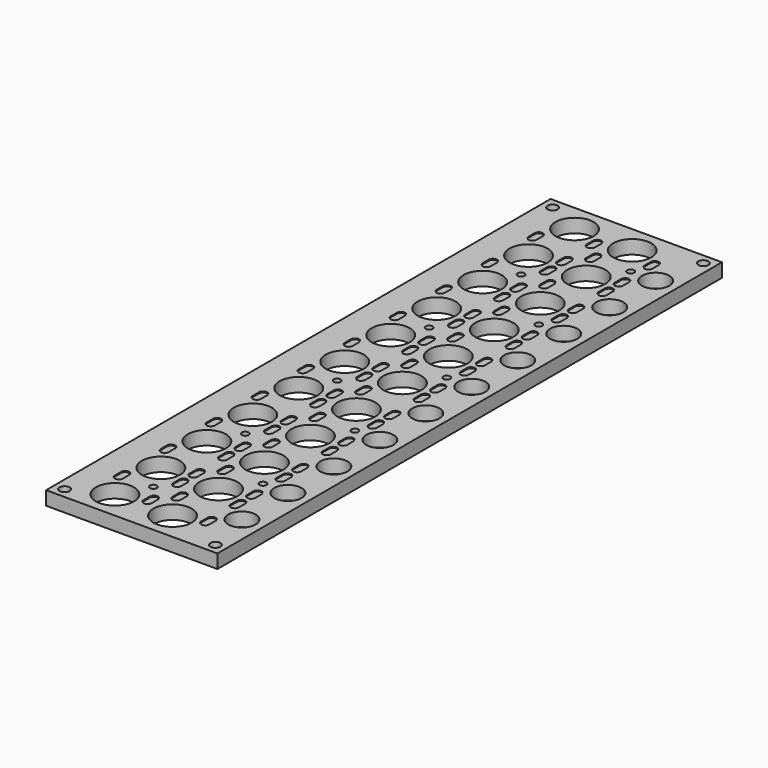
from build123d import *

# Parameters (mm, degrees)
F0_W     = 49.8404
F0_H     = 183.4444
F1_DEPTH = 4
F3_DEPTH = 0.3
F4_R     = 5.55625
F4_R_2   = 3.96875
F4_R_3   = 1.4732
F4_R_4   = 1.016
F5_DEPTH = 25


with BuildPart() as f1:
    # F0 (on Top) → F1 (new body)
    with BuildSketch(Plane.XY):
        with Locations((21.9202, 88.7222)):
            Rectangle(F0_W, F0_H)
    extrude(amount=-F1_DEPTH)

    # F2 (on face) → F3 (cut)
    with BuildSketch(Plane.XY):
        with BuildLine():
            Line((4.684775, 64.8022), (4.684775, 62.5022))
            ThreePointArc((4.684775, 62.5022), (5.8754, 61.311575), (7.066025, 62.5022))
            Line((7.066025, 62.5022), (7.066025, 64.8022))
            ThreePointArc((7.066025, 64.8022), (5.8754, 65.992825), (4.684775, 64.8022))
        make_face()
        with BuildLine():
            Line((19.732625, 168.1588), (19.732625, 170.4588))
            ThreePointArc((19.732625, 170.4588), (18.542, 171.649425), (17.351375, 170.4588))
            Line((17.351375, 170.4588), (17.351375, 168.1588))
            ThreePointArc((17.351375, 168.1588), (18.542, 166.968175), (19.732625, 168.1588))
        make_face()
        with BuildLine():
            Line((34.115375, 103.6056), (34.115375, 101.3056))
            ThreePointArc((34.115375, 101.3056), (35.306, 100.114975), (36.496625, 101.3056))
            Line((36.496625, 101.3056), (36.496625, 103.6056))
            ThreePointArc((36.496625, 103.6056), (35.306, 104.796225), (34.115375, 103.6056))
        make_face()
        with BuildLine():
            ThreePointArc((34.115375, 168.1588), (35.306, 166.968175), (36.496625, 168.1588))
            Line((36.496625, 168.1588), (36.496625, 170.4588))
            ThreePointArc((36.496625, 170.4588), (35.306, 171.649425), (34.115375, 170.4588))
            Line((34.115375, 170.4588), (34.115375, 168.1588))
        make_face()
        with BuildLine():
            Line((7.066025, 29.0756), (7.066025, 31.3756))
            ThreePointArc((7.066025, 31.3756), (5.8754, 32.566225), (4.684775, 31.3756))
            Line((4.684775, 31.3756), (4.684775, 29.0756))
            ThreePointArc((4.684775, 29.0756), (5.8754, 27.884975), (7.066025, 29.0756))
        make_face()
        with BuildLine():
            Line((34.115375, 36.7524), (34.115375, 34.4524))
            ThreePointArc((34.115375, 34.4524), (35.306, 33.261775), (36.496625, 34.4524))
            Line((36.496625, 34.4524), (36.496625, 36.7524))
            ThreePointArc((36.496625, 36.7524), (35.306, 37.943025), (34.115375, 36.7524))
        make_face()
        with BuildLine():
            Line((4.684775, 131.6554), (4.684775, 129.3554))
            ThreePointArc((4.684775, 129.3554), (5.8754, 128.164775), (7.066025, 129.3554))
            Line((7.066025, 129.3554), (7.066025, 131.6554))
            ThreePointArc((7.066025, 131.6554), (5.8754, 132.846025), (4.684775, 131.6554))
        make_face()
        with BuildLine():
            Line((36.496625, 123.9786), (36.496625, 126.2786))
            ThreePointArc((36.496625, 126.2786), (35.306, 127.469225), (34.115375, 126.2786))
            Line((34.115375, 126.2786), (34.115375, 123.9786))
            ThreePointArc((34.115375, 123.9786), (35.306, 122.787975), (36.496625, 123.9786))
        make_face()
        with BuildLine():
            Line((7.066025, 79.2155), (7.066025, 81.5155))
            ThreePointArc((7.066025, 81.5155), (5.8754, 82.706125), (4.684775, 81.5155))
            Line((4.684775, 81.5155), (4.684775, 79.2155))
            ThreePointArc((4.684775, 79.2155), (5.8754, 78.024875), (7.066025, 79.2155))
        make_face()
        with BuildLine():
            Line((34.115375, 120.3189), (34.115375, 118.0189))
            ThreePointArc((34.115375, 118.0189), (35.306, 116.828275), (36.496625, 118.018901))
            Line((36.496625, 118.018901), (36.496625, 120.318901))
            ThreePointArc((36.496625, 120.318901), (35.306, 121.509525), (34.115375, 120.3189))
        make_face()
        with BuildLine():
            Line((36.496625, 57.1254), (36.496625, 59.4254))
            ThreePointArc((36.496625, 59.4254), (35.306, 60.616025), (34.115375, 59.4254))
            Line((34.115375, 59.4254), (34.115375, 57.1254))
            ThreePointArc((34.115375, 57.1254), (35.306, 55.934775), (36.496625, 57.1254))
        make_face()
        with BuildLine():
            Line((19.732625, 123.9786), (19.732625, 126.2786))
            ThreePointArc((19.732625, 126.2786), (18.542, 127.469225), (17.351375, 126.2786))
            Line((17.351375, 126.2786), (17.351375, 123.9786))
            ThreePointArc((17.351375, 123.9786), (18.542, 122.787975), (19.732625, 123.9786))
        make_face()
        with BuildLine():
            Line((36.496625, 73.8387), (36.496625, 76.1387))
            ThreePointArc((36.496625, 76.1387), (35.306, 77.329325), (34.115375, 76.1387))
            Line((34.115375, 76.1387), (34.115375, 73.8387))
            ThreePointArc((34.115375, 73.8387), (35.306, 72.648075), (36.496625, 73.8387))
        make_face()
        with BuildLine():
            Line((36.496625, 157.4052), (36.496625, 159.7052))
            ThreePointArc((36.496625, 159.7052), (35.306, 160.895825), (34.115375, 159.7052))
            Line((34.115375, 159.7052), (34.115375, 157.4052))
            ThreePointArc((34.115375, 157.4052), (35.306, 156.214575), (36.496625, 157.4052))
        make_face()
        with BuildLine():
            Line((7.066025, 45.7889), (7.066025, 48.0889))
            ThreePointArc((7.066025, 48.0889), (5.8754, 49.279525), (4.684775, 48.0889))
            Line((4.684775, 48.0889), (4.684775, 45.7889))
            ThreePointArc((4.684775, 45.7889), (5.8754, 44.598275), (7.066025, 45.7889))
        make_face()
        with BuildLine():
            Line((7.066025, 112.6421), (7.066025, 114.9421))
            ThreePointArc((7.066025, 114.9421), (5.8754, 116.132725), (4.684775, 114.9421))
            Line((4.684775, 114.9421), (4.684775, 112.6421))
            ThreePointArc((4.684775, 112.6421), (5.8754, 111.451475), (7.066025, 112.6421))
        make_face()
        with BuildLine():
            Line((34.115375, 53.4657), (34.115375, 51.1657))
            ThreePointArc((34.115375, 51.1657), (35.306, 49.975075), (36.496625, 51.1657))
            Line((36.496625, 51.1657), (36.496625, 53.4657))
            ThreePointArc((36.496625, 53.4657), (35.306, 54.656325), (34.115375, 53.4657))
        make_face()
        with BuildLine():
            Line((34.115375, 153.7455), (34.115375, 151.4455))
            ThreePointArc((34.115375, 151.4455), (35.306, 150.254875), (36.496625, 151.4455))
            Line((36.496625, 151.4455), (36.496625, 153.7455))
            ThreePointArc((36.496625, 153.7455), (35.306, 154.936125), (34.115375, 153.7455))
        make_face()
        with BuildLine():
            ThreePointArc((34.115375, 40.4121), (35.306, 39.221475), (36.496625, 40.4121))
            Line((36.496625, 40.4121), (36.496625, 42.7121))
            ThreePointArc((36.496625, 42.7121), (35.306, 43.902725), (34.115375, 42.7121))
            Line((34.115375, 42.7121), (34.115375, 40.4121))
        make_face()
        with BuildLine():
            ThreePointArc((4.684775, 95.9288), (5.8754, 94.738175), (7.066025, 95.9288))
            Line((7.066025, 95.9288), (7.066025, 98.2288))
            ThreePointArc((7.066025, 98.2288), (5.8754, 99.419425), (4.684775, 98.2288))
            Line((4.684775, 98.2288), (4.684775, 95.9288))
        make_face()
        with BuildLine():
            Line((36.496625, 6.9855), (36.496625, 9.2855))
            ThreePointArc((36.496625, 9.2855), (35.306, 10.476125), (34.115375, 9.2855))
            Line((34.115375, 9.2855), (34.115375, 6.9855))
            ThreePointArc((34.115375, 6.9855), (35.306, 5.794875), (36.496625, 6.9855))
        make_face()
        with BuildLine():
            Line((34.115375, 109.5653), (34.115375, 107.2653))
            ThreePointArc((34.115375, 107.2653), (35.306, 106.074675), (36.496625, 107.2653))
            Line((36.496625, 107.2653), (36.496625, 109.5653))
            ThreePointArc((36.496625, 109.5653), (35.306, 110.755925), (34.115375, 109.5653))
        make_face()
        with BuildLine():
            Line((34.115375, 20.0391), (34.115375, 17.7391))
            ThreePointArc((34.115375, 17.7391), (35.306, 16.548475), (36.496625, 17.7391))
            Line((36.496625, 17.7391), (36.496625, 20.0391))
            ThreePointArc((36.496625, 20.0391), (35.306, 21.229725), (34.115375, 20.0391))
        make_face()
        with BuildLine():
            Line((4.684775, 165.082), (4.684775, 162.782))
            ThreePointArc((4.684775, 162.782), (5.8754, 161.591375), (7.066025, 162.782))
            Line((7.066025, 162.782), (7.066025, 165.082))
            ThreePointArc((7.066025, 165.082), (5.8754, 166.272625), (4.684775, 165.082))
        make_face()
        with BuildLine():
            Line((34.115375, 70.179), (34.115375, 67.879))
            ThreePointArc((34.115375, 67.879), (35.306, 66.688375), (36.496625, 67.879))
            Line((36.496625, 67.879), (36.496625, 70.179))
            ThreePointArc((36.496625, 70.179), (35.306, 71.369625), (34.115375, 70.179))
        make_face()
        with BuildLine():
            Line((36.496625, 140.6919), (36.496625, 142.9919))
            ThreePointArc((36.496625, 142.9919), (35.306, 144.182525), (34.115375, 142.9919))
            Line((34.115375, 142.9919), (34.115375, 140.6919))
            ThreePointArc((34.115375, 140.6919), (35.306, 139.501275), (36.496625, 140.6919))
        make_face()
        with BuildLine():
            Line((19.732625, 6.9855), (19.732625, 9.2855))
            ThreePointArc((19.732625, 9.2855), (18.542, 10.476125), (17.351375, 9.2855))
            Line((17.351375, 9.2855), (17.351375, 6.9855))
            ThreePointArc((17.351375, 6.9855), (18.542, 5.794875), (19.732625, 6.9855))
        make_face()
        with BuildLine():
            Line((36.496625, 90.551999), (36.496625, 92.851999))
            ThreePointArc((36.496625, 92.851999), (35.306, 94.042625), (34.115375, 92.852))
            Line((34.115375, 92.852), (34.115375, 90.552))
            ThreePointArc((34.115375, 90.552), (35.306, 89.361375), (36.496625, 90.551999))
        make_face()
        with BuildLine():
            Line((4.684775, 148.3687), (4.684775, 146.0687))
            ThreePointArc((4.684775, 146.0687), (5.8754, 144.878075), (7.066025, 146.0687))
            Line((7.066025, 146.0687), (7.066025, 148.3687))
            ThreePointArc((7.066025, 148.3687), (5.8754, 149.559325), (4.684775, 148.3687))
        make_face()
        with BuildLine():
            Line((23.830025, 45.7889), (23.830025, 48.0889))
            ThreePointArc((23.830025, 48.0889), (22.6394, 49.279525), (21.448775, 48.0889))
            Line((21.448775, 48.0889), (21.448775, 45.7889))
            ThreePointArc((21.448775, 45.7889), (22.6394, 44.598275), (23.830025, 45.7889))
        make_face()
        with BuildLine():
            Line((21.448775, 31.3756), (21.448775, 29.0756))
            ThreePointArc((21.448775, 29.0756), (22.6394, 27.884975), (23.830025, 29.0756))
            Line((23.830025, 29.0756), (23.830025, 31.3756))
            ThreePointArc((23.830025, 31.3756), (22.6394, 32.566225), (21.448775, 31.3756))
        make_face()
        with BuildLine():
            Line((19.732625, 107.2653), (19.732625, 109.5653))
            ThreePointArc((19.732625, 109.5653), (18.542, 110.755925), (17.351375, 109.5653))
            Line((17.351375, 109.5653), (17.351375, 107.2653))
            ThreePointArc((17.351375, 107.2653), (18.542, 106.074675), (19.732625, 107.2653))
        make_face()
        with BuildLine():
            ThreePointArc((17.351375, 84.5923), (18.542, 83.401675), (19.732625, 84.5923))
            Line((19.732625, 84.5923), (19.732625, 86.8923))
            ThreePointArc((19.732625, 86.8923), (18.542, 88.082925), (17.351375, 86.8923))
            Line((17.351375, 86.8923), (17.351375, 84.5923))
        make_face()
        with BuildLine():
            ThreePointArc((17.351375, 67.879), (18.542, 66.688375), (19.732625, 67.879))
            Line((19.732625, 67.879), (19.732625, 70.179))
            ThreePointArc((19.732625, 70.179), (18.542, 71.369625), (17.351375, 70.179))
            Line((17.351375, 70.179), (17.351375, 67.879))
        make_face()
        with BuildLine():
            Line((23.830025, 12.3623), (23.830025, 14.6623))
            ThreePointArc((23.830025, 14.6623), (22.6394, 15.852925), (21.448775, 14.6623))
            Line((21.448775, 14.6623), (21.448775, 12.3623))
            ThreePointArc((21.448775, 12.3623), (22.6394, 11.171675), (23.830025, 12.3623))
        make_face()
        with BuildLine():
            Line((34.115375, 137.0322), (34.115375, 134.7322))
            ThreePointArc((34.115375, 134.7322), (35.306, 133.541575), (36.496625, 134.7322))
            Line((36.496625, 134.7322), (36.496625, 137.0322))
            ThreePointArc((36.496625, 137.0322), (35.306, 138.222825), (34.115375, 137.0322))
        make_face()
        with BuildLine():
            Line((34.115375, 86.8923), (34.115375, 84.5923))
            ThreePointArc((34.115375, 84.5923), (35.306, 83.401675), (36.496625, 84.5923))
            Line((36.496625, 84.5923), (36.496625, 86.8923))
            ThreePointArc((36.496625, 86.8923), (35.306, 88.082925), (34.115375, 86.8923))
        make_face()
        with BuildLine():
            ThreePointArc((21.448775, 146.0687), (22.6394, 144.878075), (23.830025, 146.0687))
            Line((23.830025, 146.0687), (23.830025, 148.3687))
            ThreePointArc((23.830025, 148.3687), (22.6394, 149.559325), (21.448775, 148.3687))
            Line((21.448775, 148.3687), (21.448775, 146.0687))
        make_face()
        with BuildLine():
            Line((21.448775, 81.5155), (21.448775, 79.2155))
            ThreePointArc((21.448775, 79.2155), (22.6394, 78.024875), (23.830025, 79.2155))
            Line((23.830025, 79.2155), (23.830025, 81.5155))
            ThreePointArc((23.830025, 81.5155), (22.6394, 82.706125), (21.448775, 81.5155))
        make_face()
        with BuildLine():
            Line((17.351375, 76.1387), (17.351375, 73.8387))
            ThreePointArc((17.351375, 73.8387), (18.542, 72.648075), (19.732625, 73.8387))
            Line((19.732625, 73.8387), (19.732625, 76.1387))
            ThreePointArc((19.732625, 76.1387), (18.542, 77.329325), (17.351375, 76.1387))
        make_face()
        with BuildLine():
            Line((17.351375, 42.7121), (17.351375, 40.4121))
            ThreePointArc((17.351375, 40.4121), (18.542, 39.221475), (19.732625, 40.4121))
            Line((19.732625, 40.4121), (19.732625, 42.7121))
            ThreePointArc((19.732625, 42.7121), (18.542, 43.902725), (17.351375, 42.7121))
        make_face()
        with BuildLine():
            Line((4.684775, 14.6623), (4.684775, 12.3623))
            ThreePointArc((4.684775, 12.3623), (5.8754, 11.171675), (7.066025, 12.3623))
            Line((7.066025, 12.3623), (7.066025, 14.6623))
            ThreePointArc((7.066025, 14.6623), (5.8754, 15.852925), (4.684775, 14.6623))
        make_face()
        with BuildLine():
            Line((17.351375, 103.6056), (17.351375, 101.3056))
            ThreePointArc((17.351375, 101.3056), (18.542, 100.114975), (19.732625, 101.3056))
            Line((19.732625, 101.3056), (19.732625, 103.6056))
            ThreePointArc((19.732625, 103.6056), (18.542, 104.796225), (17.351375, 103.6056))
        make_face()
        with BuildLine():
            Line((17.351375, 137.0322), (17.351375, 134.7322))
            ThreePointArc((17.351375, 134.7322), (18.542, 133.541575), (19.732625, 134.7322))
            Line((19.732625, 134.7322), (19.732625, 137.0322))
            ThreePointArc((19.732625, 137.0322), (18.542, 138.222825), (17.351375, 137.0322))
        make_face()
        with BuildLine():
            Line((34.115375, 25.9988), (34.115375, 23.6988))
            ThreePointArc((34.115375, 23.6988), (35.306, 22.508175), (36.496625, 23.6988))
            Line((36.496625, 23.6988), (36.496625, 25.9988))
            ThreePointArc((36.496625, 25.9988), (35.306, 27.189425), (34.115375, 25.9988))
        make_face()
        with BuildLine():
            Line((19.732625, 34.4524), (19.732625, 36.7524))
            ThreePointArc((19.732625, 36.7524), (18.542, 37.943025), (17.351375, 36.7524))
            Line((17.351375, 36.7524), (17.351375, 34.4524))
            ThreePointArc((17.351375, 34.4524), (18.542, 33.261775), (19.732625, 34.4524))
        make_face()
        with BuildLine():
            ThreePointArc((17.351375, 140.6919), (18.542, 139.501275), (19.732625, 140.6919))
            Line((19.732625, 140.6919), (19.732625, 142.9919))
            ThreePointArc((19.732625, 142.9919), (18.542, 144.182525), (17.351375, 142.9919))
            Line((17.351375, 142.9919), (17.351375, 140.6919))
        make_face()
        with BuildLine():
            Line((23.830025, 62.5022), (23.830025, 64.8022))
            ThreePointArc((23.830025, 64.8022), (22.6394, 65.992825), (21.448775, 64.8022))
            Line((21.448775, 64.8022), (21.448775, 62.5022))
            ThreePointArc((21.448775, 62.5022), (22.6394, 61.311575), (23.830025, 62.5022))
        make_face()
        with BuildLine():
            Line((17.351375, 20.0391), (17.351375, 17.7391))
            ThreePointArc((17.351375, 17.7391), (18.542, 16.548475), (19.732625, 17.7391))
            Line((19.732625, 17.7391), (19.732625, 20.0391))
            ThreePointArc((19.732625, 20.0391), (18.542, 21.229725), (17.351375, 20.0391))
        make_face()
        with BuildLine():
            Line((17.351375, 153.7455), (17.351375, 151.4455))
            ThreePointArc((17.351375, 151.4455), (18.542, 150.254875), (19.732625, 151.4455))
            Line((19.732625, 151.4455), (19.732625, 153.7455))
            ThreePointArc((19.732625, 153.7455), (18.542, 154.936125), (17.351375, 153.7455))
        make_face()
        with BuildLine():
            ThreePointArc((21.448775, 129.3554), (22.6394, 128.164775), (23.830025, 129.3554))
            Line((23.830025, 129.3554), (23.830025, 131.6554))
            ThreePointArc((23.830025, 131.6554), (22.6394, 132.846025), (21.448775, 131.6554))
            Line((21.448775, 131.6554), (21.448775, 129.3554))
        make_face()
        with BuildLine():
            Line((21.448775, 114.9421), (21.448775, 112.6421))
            ThreePointArc((21.448775, 112.6421), (22.6394, 111.451475), (23.830025, 112.6421))
            Line((23.830025, 112.6421), (23.830025, 114.9421))
            ThreePointArc((23.830025, 114.9421), (22.6394, 116.132725), (21.448775, 114.9421))
        make_face()
        with BuildLine():
            ThreePointArc((17.351375, 90.552), (18.542, 89.361375), (19.732625, 90.552))
            Line((19.732625, 90.552), (19.732625, 92.852))
            ThreePointArc((19.732625, 92.852), (18.542, 94.042625), (17.351375, 92.852))
            Line((17.351375, 92.852), (17.351375, 90.552))
        make_face()
        with BuildLine():
            Line((19.732625, 51.1657), (19.732625, 53.4657))
            ThreePointArc((19.732625, 53.4657), (18.542, 54.656325), (17.351375, 53.4657))
            Line((17.351375, 53.4657), (17.351375, 51.1657))
            ThreePointArc((17.351375, 51.1657), (18.542, 49.975075), (19.732625, 51.1657))
        make_face()
        with BuildLine():
            ThreePointArc((21.448775, 162.782), (22.6394, 161.591375), (23.830025, 162.782))
            Line((23.830025, 162.782), (23.830025, 165.082))
            ThreePointArc((23.830025, 165.082), (22.6394, 166.272625), (21.448775, 165.082))
            Line((21.448775, 165.082), (21.448775, 162.782))
        make_face()
        with BuildLine():
            ThreePointArc((17.351375, 118.0189), (18.542, 116.828275), (19.732625, 118.0189))
            Line((19.732625, 118.0189), (19.732625, 120.3189))
            ThreePointArc((19.732625, 120.3189), (18.542, 121.509525), (17.351375, 120.3189))
            Line((17.351375, 120.3189), (17.351375, 118.0189))
        make_face()
        with BuildLine():
            Line((17.351375, 25.9988), (17.351375, 23.6988))
            ThreePointArc((17.351375, 23.6988), (18.542, 22.508175), (19.732625, 23.6988))
            Line((19.732625, 23.6988), (19.732625, 25.9988))
            ThreePointArc((19.732625, 25.9988), (18.542, 27.189425), (17.351375, 25.9988))
        make_face()
        with BuildLine():
            Line((17.351375, 159.7052), (17.351375, 157.4052))
            ThreePointArc((17.351375, 157.4052), (18.542, 156.214575), (19.732625, 157.4052))
            Line((19.732625, 157.4052), (19.732625, 159.7052))
            ThreePointArc((19.732625, 159.7052), (18.542, 160.895825), (17.351375, 159.7052))
        make_face()
        with BuildLine():
            ThreePointArc((17.351375, 57.1254), (18.542, 55.934775), (19.732625, 57.1254))
            Line((19.732625, 57.1254), (19.732625, 59.4254))
            ThreePointArc((19.732625, 59.4254), (18.542, 60.616025), (17.351375, 59.4254))
            Line((17.351375, 59.4254), (17.351375, 57.1254))
        make_face()
        with BuildLine():
            Line((21.448775, 98.2288), (21.448775, 95.9288))
            ThreePointArc((21.448775, 95.9288), (22.6394, 94.738175), (23.830025, 95.9288))
            Line((23.830025, 95.9288), (23.830025, 98.2288))
            ThreePointArc((23.830025, 98.2288), (22.6394, 99.419425), (21.448775, 98.2288))
        make_face()
    extrude(amount=-F3_DEPTH, mode=Mode.SUBTRACT)

    # F4 (on face) → F5 (cut)
    with BuildSketch(Plane.XY):
        with Locations((10.5, 21.86895)):
            Circle(F4_R)
        with Locations((10.5, 5.15565)):
            Circle(F4_R)
        with Locations((27.264, 5.15565)):
            Circle(F4_R)
        with Locations((27.264, 21.86895)):
            Circle(F4_R)
        with Locations((40.764, 13.5123)):
            Circle(F4_R_2)
        with Locations((10.5, 55.29555)):
            Circle(F4_R)
        with Locations((27.264, 55.29555)):
            Circle(F4_R)
        with Locations((40.764, 46.9389)):
            Circle(F4_R_2)
        with Locations((10.5, 38.58225)):
            Circle(F4_R)
        with Locations((27.264, 38.58225)):
            Circle(F4_R)
        with Locations((40.764, 30.2256)):
            Circle(F4_R_2)
        with Locations((40.764, 63.6522)):
            Circle(F4_R_2)
        with Locations((40.764, 113.7921)):
            Circle(F4_R_2)
        with Locations((10.5, 105.43545)):
            Circle(F4_R)
        with Locations((27.264, 105.43545)):
            Circle(F4_R)
        with Locations((40.764, 97.0788)):
            Circle(F4_R_2)
        with Locations((40.764, 130.5054)):
            Circle(F4_R_2)
        with Locations((40.764, 80.3655)):
            Circle(F4_R_2)
        with Locations((27.264, 122.14875)):
            Circle(F4_R)
        with Locations((10.5, 122.14875)):
            Circle(F4_R)
        with Locations((27.264, 88.72215)):
            Circle(F4_R)
        with Locations((27.264, 72.00885)):
            Circle(F4_R)
        with Locations((10.5, 88.72215)):
            Circle(F4_R)
        with Locations((10.5, 72.00885)):
            Circle(F4_R)
        with Locations((27.264, 138.86205)):
            Circle(F4_R)
        with Locations((27.264, 172.28865)):
            Circle(F4_R)
        with Locations((27.264, 155.57535)):
            Circle(F4_R)
        with Locations((40.764, 147.2187)):
            Circle(F4_R_2)
        with Locations((10.5, 138.86205)):
            Circle(F4_R)
        with Locations((10.5, 155.57535)):
            Circle(F4_R)
        with Locations((10.5, 172.28865)):
            Circle(F4_R)
        with Locations((40.764, 163.932)):
            Circle(F4_R_2)
        with Locations((43.8404, 0)):
            Circle(F4_R_3)
        with Locations((0, 177.4444)):
            Circle(F4_R_3)
        with Locations((33.5, 163.932)):
            Circle(F4_R_4)
        with Locations((15, 147.2187)):
            Circle(F4_R_4)
        with Locations((33.5, 130.5054)):
            Circle(F4_R_4)
        with Locations((15, 113.7921)):
            Circle(F4_R_4)
        with Locations((33.5, 97.0788)):
            Circle(F4_R_4)
        with Locations((15, 80.3655)):
            Circle(F4_R_4)
        with Locations((33.5, 63.6522)):
            Circle(F4_R_4)
        with Locations((15, 46.9389)):
            Circle(F4_R_4)
        with Locations((33.5, 30.2256)):
            Circle(F4_R_4)
        with Locations((15, 13.5123)):
            Circle(F4_R_4)
        Circle(F4_R_3)
        with Locations((43.8404, 177.4444)):
            Circle(F4_R_3)
    extrude(amount=-F5_DEPTH, mode=Mode.SUBTRACT)


solid = f1.part
